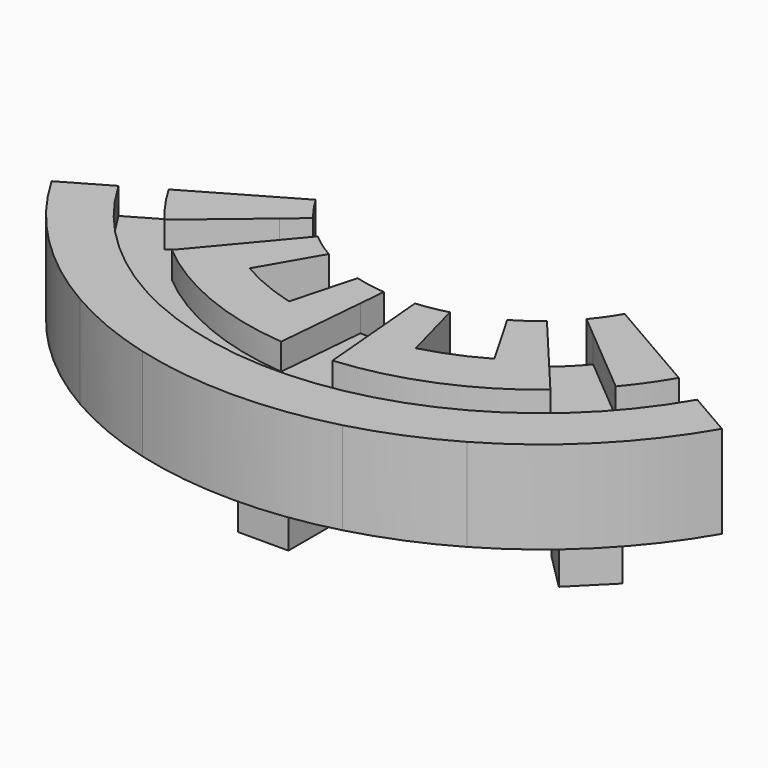
from build123d import *

# Parameters (mm, degrees)
F0_W     = 3.8
F0_H     = 3.8
F0_R     = 1
F1_DEPTH = 7
F2_DEPTH = 4
F5_DEPTH = 2
F6_DEPTH = 2
F7_DEPTH = 4
F8_DEPTH = 6


with BuildPart() as f1:
    # F0 (on Top) → F1 (new body)
    with BuildSketch(Plane.XY):
        with BuildLine():
            ThreePointArc((14.6437525, -25.3637233435), (20.7093933895, -20.7093933895), (25.3637233435, -14.6437525))
            Line((25.3637233435, -14.6437525), (16.0434713454, -9.2627025))
            ThreePointArc((16.0434713454, -9.2627025), (13.0994394997, -13.0994394997), (9.2627025, -16.0434713454))
            Line((9.2627025, -16.0434713454), (14.6437525, -25.3637233435))
        make_face()
        Polygon((17.2713695087, -14.5843637402), (19.9583752772, -17.2713695087), (17.2713695087, -19.9583752772), (14.5843637402, -17.2713695087), align=None, mode=Mode.SUBTRACT)
        Polygon((17.2713695087, -19.9583752772), (19.9583752772, -17.2713695087), (17.2713695087, -14.5843637402), (14.5843637402, -17.2713695087), align=None)
        with BuildLine():
            ThreePointArc((9.2627025, -16.0434713454), (13.0994394997, -13.0994394997), (16.0434713454, -9.2627025))
            Line((16.0434713454, -9.2627025), (11.6913429511, -6.75))
            ThreePointArc((11.6913429511, -6.75), (9.545941546, -9.545941546), (6.75, -11.6913429511))
            Line((6.75, -11.6913429511), (9.2627025, -16.0434713454))
        make_face()
        with BuildLine():
            ThreePointArc((7.5801640775, -28.2895574671), (11.2078429388, -27.0581264278), (14.6437525, -25.3637233435))
            Line((14.6437525, -25.3637233435), (9.2627025, -16.0434713454))
            ThreePointArc((9.2627025, -16.0434713454), (7.0893655714, -17.115242511), (4.7947276322, -17.894167132))
            Line((4.7947276322, -17.894167132), (7.5801640775, -28.2895574671))
        make_face()
        with BuildLine():
            Line((-4.7947276322, -17.894167132), (-7.5801640775, -28.2895574671))
            ThreePointArc((-7.5801640775, -28.2895574671), (0, -29.287505), (7.5801640775, -28.2895574671))
            Line((7.5801640775, -28.2895574671), (4.7947276322, -17.894167132))
            ThreePointArc((4.7947276322, -17.894167132), (0, -18.525405), (-4.7947276322, -17.894167132))
        make_face()
        with Locations((0, -24.425405)):
            Rectangle(F0_W, F0_H, mode=Mode.SUBTRACT)
        with Locations((0, -24.425405)):
            Rectangle(F0_W, F0_H)
        with Locations((0, -24.425405)):
            Circle(F0_R, mode=Mode.SUBTRACT)
        with Locations((0, -24.425405)):
            Circle(F0_R)
        with BuildLine():
            Line((-3.4940571089, -13.0399986549), (-4.7947276322, -17.894167132))
            ThreePointArc((-4.7947276322, -17.894167132), (0, -18.525405), (4.7947276322, -17.894167132))
            Line((4.7947276322, -17.894167132), (3.4940571089, -13.0399986549))
            ThreePointArc((3.4940571089, -13.0399986549), (0, -13.5), (-3.4940571089, -13.0399986549))
        make_face()
        with BuildLine():
            Line((-9.2627025, -16.0434713454), (-14.6437525, -25.3637233435))
            ThreePointArc((-14.6437525, -25.3637233435), (-11.2078429388, -27.0581264278), (-7.5801640775, -28.2895574671))
            Line((-7.5801640775, -28.2895574671), (-4.7947276322, -17.894167132))
            ThreePointArc((-4.7947276322, -17.894167132), (-7.0893655714, -17.115242511), (-9.2627025, -16.0434713454))
        make_face()
        with BuildLine():
            Line((-16.0434713454, -9.2627025), (-25.3637233435, -14.6437525))
            ThreePointArc((-25.3637233435, -14.6437525), (-20.7093933895, -20.7093933895), (-14.6437525, -25.3637233435))
            Line((-14.6437525, -25.3637233435), (-9.2627025, -16.0434713454))
            ThreePointArc((-9.2627025, -16.0434713454), (-13.0994394997, -13.0994394997), (-16.0434713454, -9.2627025))
        make_face()
        Polygon((-14.5843637402, -17.2713695087), (-17.2713695087, -19.9583752772), (-19.9583752772, -17.2713695087), (-17.2713695087, -14.5843637402), align=None, mode=Mode.SUBTRACT)
        Polygon((-19.9583752772, -17.2713695087), (-17.2713695087, -19.9583752772), (-14.5843637402, -17.2713695087), (-17.2713695087, -14.5843637402), align=None)
        with BuildLine():
            Line((-11.6913429511, -6.75), (-16.0434713454, -9.2627025))
            ThreePointArc((-16.0434713454, -9.2627025), (-13.0994394997, -13.0994394997), (-9.2627025, -16.0434713454))
            Line((-9.2627025, -16.0434713454), (-6.75, -11.6913429511))
            ThreePointArc((-6.75, -11.6913429511), (-9.545941546, -9.545941546), (-11.6913429511, -6.75))
        make_face()
    extrude(amount=F1_DEPTH)

    # F0 (on Top) → F2 (join)
    with BuildSketch(Plane.XY):
        Polygon((17.2713695087, -19.9583752772), (19.9583752772, -17.2713695087), (17.2713695087, -14.5843637402), (14.5843637402, -17.2713695087), align=None)
        with Locations((0, -24.425405)):
            Rectangle(F0_W, F0_H)
        with Locations((0, -24.425405)):
            Circle(F0_R, mode=Mode.SUBTRACT)
        with Locations((0, -24.425405)):
            Circle(F0_R)
        Polygon((-19.9583752772, -17.2713695087), (-17.2713695087, -19.9583752772), (-14.5843637402, -17.2713695087), (-17.2713695087, -14.5843637402), align=None)
    extrude(amount=-F2_DEPTH)

    # F4 (on offset) → F5 (cut)
    with BuildSketch(Plane.XY.offset(7)):
        with BuildLine():
            Line((-11.8736888683, -9.9632079501), (-17.0732193562, -14.3261320648))
            ThreePointArc((-17.0732193562, -14.3261320648), (-15.7596459212, -15.7596459212), (-14.3261320648, -17.0732193562))
            Line((-14.3261320648, -17.0732193562), (-9.9632079501, -11.8736888683))
            ThreePointArc((-9.9632079501, -11.8736888683), (-10.9601551084, -10.9601551084), (-11.8736888683, -9.9632079501))
        make_face()
        with BuildLine():
            Line((-1.3509140126, -15.4410178204), (-1.9424840523, -22.2026943147))
            ThreePointArc((-1.9424840523, -22.2026943147), (0, -22.287505), (1.9424840523, -22.2026943147))
            Line((1.9424840523, -22.2026943147), (1.3509140126, -15.4410178204))
            ThreePointArc((1.3509140126, -15.4410178204), (0, -15.5), (-1.3509140126, -15.4410178204))
        make_face()
        with BuildLine():
            ThreePointArc((14.3261320648, -17.0732193562), (15.7596459212, -15.7596459212), (17.0732193562, -14.3261320648))
            Line((17.0732193562, -14.3261320648), (11.8736888683, -9.9632079501))
            ThreePointArc((11.8736888683, -9.9632079501), (10.9601551084, -10.9601551084), (9.9632079501, -11.8736888683))
            Line((9.9632079501, -11.8736888683), (14.3261320648, -17.0732193562))
        make_face()
        with BuildLine():
            Line((-19.301545517, -11.1437525), (-21.8996217283, -12.6437525))
            ThreePointArc((-21.8996217283, -12.6437525), (0, -25.287505), (21.8996217283, -12.6437525))
            Line((21.8996217283, -12.6437525), (19.301545517, -11.1437525))
            ThreePointArc((19.301545517, -11.1437525), (18.2568552829, -12.7835876931), (17.0732193562, -14.3261320648))
            ThreePointArc((17.0732193562, -14.3261320648), (15.7596459212, -15.7596459212), (14.3261320648, -17.0732193562))
            ThreePointArc((14.3261320648, -17.0732193562), (8.5290589123, -20.5909697002), (1.9424840523, -22.2026943147))
            ThreePointArc((1.9424840523, -22.2026943147), (0, -22.287505), (-1.9424840523, -22.2026943147))
            ThreePointArc((-1.9424840523, -22.2026943147), (-8.5290589123, -20.5909697002), (-14.3261320648, -17.0732193562))
            ThreePointArc((-14.3261320648, -17.0732193562), (-15.7596459212, -15.7596459212), (-17.0732193562, -14.3261320648))
            ThreePointArc((-17.0732193562, -14.3261320648), (-18.2568552829, -12.7835876931), (-19.301545517, -11.1437525))
        make_face()
    extrude(amount=-F5_DEPTH, mode=Mode.SUBTRACT)

    # F4 (on offset) → F6 (cut)
    with BuildSketch(Plane.XY.offset(7)):
        with BuildLine():
            Line((-10.3415999821, -8.6776327308), (-11.8736888683, -9.9632079501))
            ThreePointArc((-11.8736888683, -9.9632079501), (-10.9601551084, -10.9601551084), (-9.9632079501, -11.8736888683))
            Line((-9.9632079501, -11.8736888683), (-8.6776327308, -10.3415999821))
            ThreePointArc((-8.6776327308, -10.3415999821), (-9.545941546, -9.545941546), (-10.3415999821, -8.6776327308))
        make_face()
    extrude(amount=-F6_DEPTH, mode=Mode.SUBTRACT)

    # F4 (on offset) → F7 (cut)
    with BuildSketch(Plane.XY.offset(7)):
        with BuildLine():
            Line((-1.1766025271, -13.4486284242), (-1.3509140126, -15.4410178204))
            ThreePointArc((-1.3509140126, -15.4410178204), (0, -15.5), (1.3509140126, -15.4410178204))
            Line((1.3509140126, -15.4410178204), (1.1766025271, -13.4486284242))
            ThreePointArc((1.1766025271, -13.4486284242), (0, -13.5), (-1.1766025271, -13.4486284242))
        make_face()
    extrude(amount=-F7_DEPTH, mode=Mode.SUBTRACT)

    # F4 (on offset) → F8 (cut)
    with BuildSketch(Plane.XY.offset(7)):
        with BuildLine():
            ThreePointArc((9.9632079501, -11.8736888683), (10.9601551084, -10.9601551084), (11.8736888683, -9.9632079501))
            Line((11.8736888683, -9.9632079501), (10.3415999821, -8.6776327308))
            ThreePointArc((10.3415999821, -8.6776327308), (9.545941546, -9.545941546), (8.6776327308, -10.3415999821))
            Line((8.6776327308, -10.3415999821), (9.9632079501, -11.8736888683))
        make_face()
    extrude(amount=-F8_DEPTH, mode=Mode.SUBTRACT)


solid = f1.part
